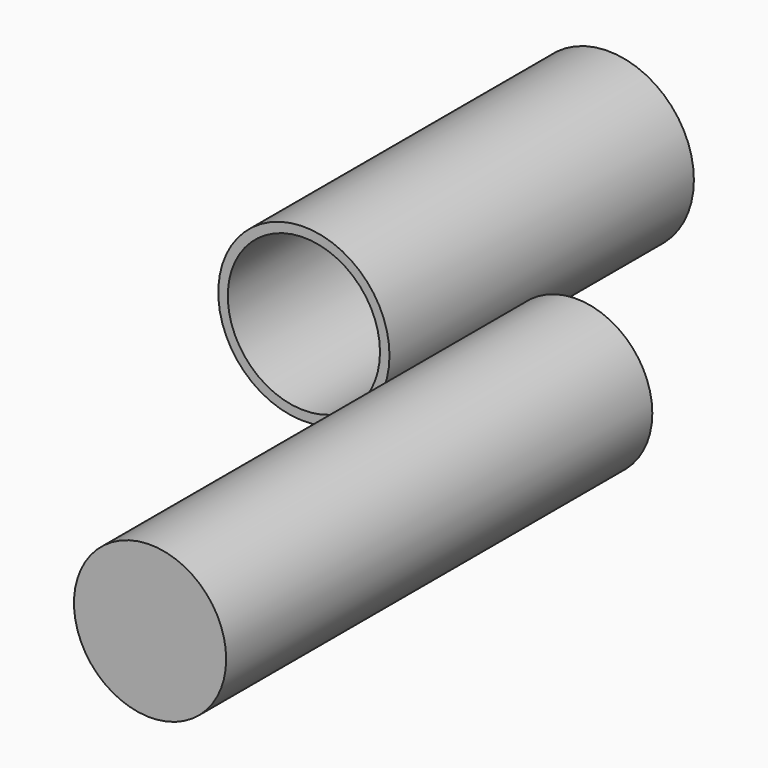
from build123d import *

# Parameters (mm, degrees)
F0_R     = 28.575
F0_R_2   = 25.4
F1_DEPTH = 127
F2_R     = 25.4
F3_DEPTH = 177.8


with BuildPart() as f1:
    # F0 (on Front) → F1 (new body)
    with BuildSketch(Plane.XZ):
        Circle(F0_R)
        Circle(F0_R_2, mode=Mode.SUBTRACT)
    extrude(amount=-F1_DEPTH)


with BuildPart() as f3:
    # F2 (on Front) → F3 (new body)
    with BuildSketch(Plane.XZ):
        with Locations((90.898052, 11.600883)):
            Circle(F2_R)
    extrude(amount=F3_DEPTH)


solid = Compound([f1.part, f3.part])
